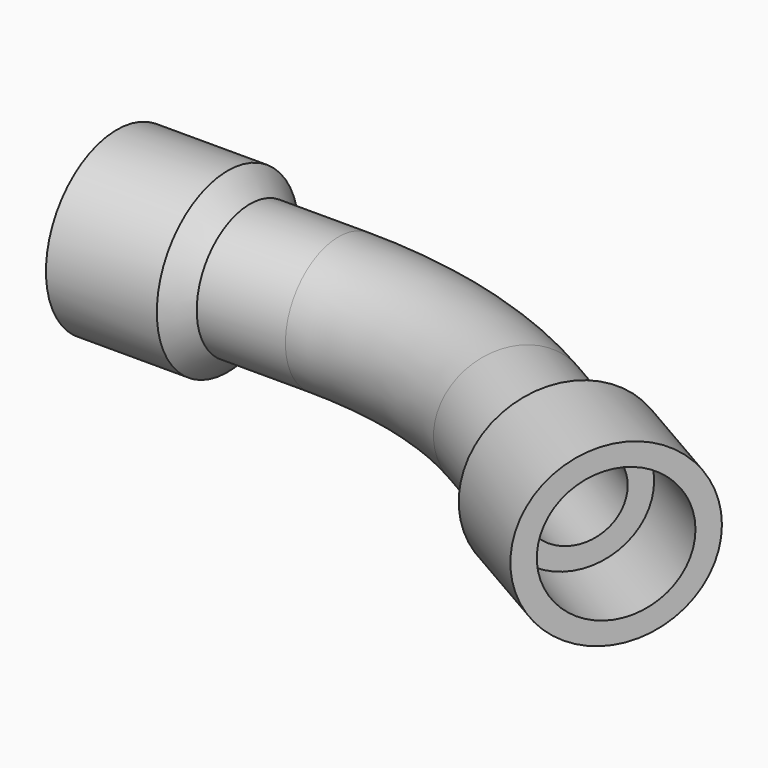
from build123d import *

# Parameters (mm, degrees)
F3_FACE_R   = 7.5
F3_FACE_R_2 = 5
F6_ANGLE    = 30


with BuildPart() as f3:
    # F1 (on Top) → F3 (revolve)
    with BuildSketch(Plane.XY):
        Polygon((-25, 7.5), (-15, 7.5), (-15, 5), (0, 5), (0, 7.5), (-10, 7.5), (-12.5, 10), (-25, 10), align=None)
    revolve(axis=Axis((25, 0, 0), (1, 0, 0)))


with BuildPart() as f4:
    # F4: sweep along a path in F1
    with BuildLine(Plane.XY) as f4_path:
        ThreePointArc((25, -6.6987298108), (12.9409522551, -1.7037086855), (0, 0))
    # F3_face (on face) → F4 (sweep)
    with BuildSketch(Plane.YZ):
        Circle(F3_FACE_R)
        Circle(F3_FACE_R_2, mode=Mode.SUBTRACT)
    sweep(path=f4_path.line)


with BuildPart() as f5_1:
    # F5: instance of F3
    add(f3.part.mirror(Plane.YZ))


with BuildPart() as f5_1_1:
    # F6: moved
    add(f5_1.part.rotate(Axis((0, -50, -1.2442283332), (0, 0, -1)), F6_ANGLE))


solid = Compound([f3.part, f4.part, f5_1_1.part])
